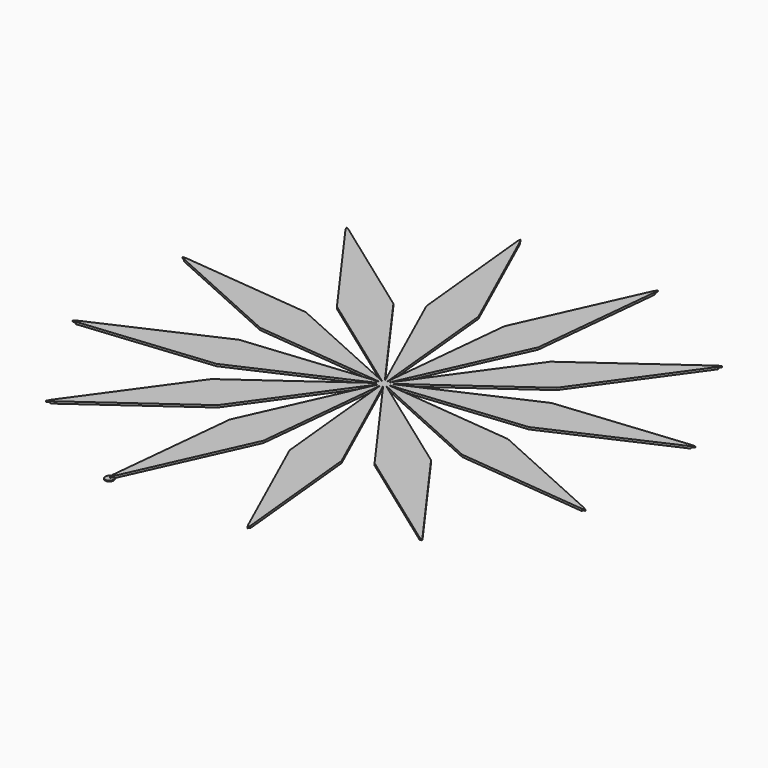
from build123d import *

# Parameters (mm, degrees)
F0_DEPTH = 1.25
F4_DEPTH = 0.5
F1_DEPTH = 0.625


with BuildPart() as f0:
    # F2 (on Top) → F0 (new body)
    with BuildSketch(Plane.XY):
        with BuildLine():
            ThreePointArc((2.2414386804, -1.2940952255), (2.5, -0.6698729811), (2.588190451, 0))
            ThreePointArc((2.588190451, 0), (2.5, 0.6698729811), (2.2414386804, 1.2940952255))
            ThreePointArc((2.2414386804, 1.2940952255), (1.8301270189, 1.8301270189), (1.2940952255, 2.2414386804))
            ThreePointArc((1.2940952255, 2.2414386804), (0.6698729811, 2.5), (0, 2.588190451))
            ThreePointArc((0, 2.588190451), (-0.6698729811, 2.5), (-1.2940952255, 2.2414386804))
            ThreePointArc((-1.2940952255, 2.2414386804), (-1.8301270189, 1.8301270189), (-2.2414386804, 1.2940952255))
            ThreePointArc((-2.2414386804, 1.2940952255), (-2.5, 0.6698729811), (-2.588190451, 0))
            Line((-2.588190451, 0), (0, 0))
            Line((0, 0), (0, -2.588190451))
            ThreePointArc((0, -2.588190451), (0.6698729811, -2.5), (1.2940952255, -2.2414386804))
            ThreePointArc((1.2940952255, -2.2414386804), (1.8301270189, -1.8301270189), (2.2414386804, -1.2940952255))
        make_face()
        with BuildLine():
            Line((79.283469064, -7.6867534323), (2.588190451, 0))
            ThreePointArc((2.588190451, 0), (2.5, -0.6698729811), (2.2414386804, -1.2940952255))
            Line((2.2414386804, -1.2940952255), (72.5048750257, -32.984810787))
            Line((72.5048750257, -32.984810787), (149.2001536387, -40.6715642193))
            Line((149.2001536387, -40.6715642193), (151.3053811766, -40.5421546968))
            Line((151.3053811766, -40.5421546968), (149.5469054093, -39.3774689938))
            Line((149.5469054093, -39.3774689938), (79.283469064, -7.6867534323))
        make_face()
        with BuildLine():
            ThreePointArc((2.2414386804, 1.2940952255), (2.5, 0.6698729811), (2.588190451, 0))
            Line((2.588190451, 0), (79.283469064, 7.6867534323))
            Line((79.283469064, 7.6867534323), (149.5469054093, 39.3774689938))
            Line((149.5469054093, 39.3774689938), (151.3053811766, 40.5421546968))
            Line((151.3053811766, 40.5421546968), (149.2001536387, 40.6715642193))
            Line((149.2001536387, 40.6715642193), (72.5048750257, 32.984810787))
            Line((72.5048750257, 32.984810787), (2.2414386804, 1.2940952255))
        make_face()
        with BuildLine():
            ThreePointArc((1.2940952255, 2.2414386804), (1.8301270189, 1.8301270189), (2.2414386804, 1.2940952255))
            Line((2.2414386804, 1.2940952255), (64.8181215934, 46.298658277))
            Line((64.8181215934, 46.298658277), (109.8226846449, 108.87534119))
            Line((109.8226846449, 108.87534119), (110.7632264798, 110.7632264798))
            Line((110.7632264798, 110.7632264798), (108.87534119, 109.8226846449))
            Line((108.87534119, 109.8226846449), (46.298658277, 64.8181215934))
            Line((46.298658277, 64.8181215934), (1.2940952255, 2.2414386804))
        make_face()
        with BuildLine():
            Line((64.8181215934, -46.298658277), (2.2414386804, -1.2940952255))
            ThreePointArc((2.2414386804, -1.2940952255), (1.8301270189, -1.8301270189), (1.2940952255, -2.2414386804))
            Line((1.2940952255, -2.2414386804), (46.298658277, -64.8181215934))
            Line((46.298658277, -64.8181215934), (108.87534119, -109.8226846449))
            Line((108.87534119, -109.8226846449), (110.7632264798, -110.7632264798))
            Line((110.7632264798, -110.7632264798), (109.8226846449, -108.87534119))
            Line((109.8226846449, -108.87534119), (64.8181215934, -46.298658277))
        make_face()
        with BuildLine():
            ThreePointArc((0, 2.588190451), (0.6698729811, 2.5), (1.2940952255, 2.2414386804))
            Line((1.2940952255, 2.2414386804), (32.984810787, 72.5048750257))
            Line((32.984810787, 72.5048750257), (40.6715642193, 149.2001536387))
            Line((40.6715642193, 149.2001536387), (40.5421546968, 151.3053811766))
            Line((40.5421546968, 151.3053811766), (39.3774689938, 149.5469054093))
            Line((39.3774689938, 149.5469054093), (7.6867534323, 79.283469064))
            Line((7.6867534323, 79.283469064), (0, 2.588190451))
        make_face()
        with BuildLine():
            Line((32.984810787, -72.5048750257), (1.2940952255, -2.2414386804))
            ThreePointArc((1.2940952255, -2.2414386804), (0.6698729811, -2.5), (0, -2.588190451))
            Line((0, -2.588190451), (7.6867534323, -79.283469064))
            Line((7.6867534323, -79.283469064), (39.3774689938, -149.5469054093))
            Line((39.3774689938, -149.5469054093), (40.5421546968, -151.3053811766))
            Line((40.5421546968, -151.3053811766), (40.6715642193, -149.2001536387))
            Line((40.6715642193, -149.2001536387), (32.984810787, -72.5048750257))
        make_face()
        with BuildLine():
            ThreePointArc((-1.2940952255, 2.2414386804), (-0.6698729811, 2.5), (0, 2.588190451))
            Line((0, 2.588190451), (-7.6867534323, 79.283469064))
            Line((-7.6867534323, 79.283469064), (-39.3774689938, 149.5469054093))
            Line((-39.3774689938, 149.5469054093), (-40.5421546968, 151.3053811766))
            Line((-40.5421546968, 151.3053811766), (-40.6715642193, 149.2001536387))
            Line((-40.6715642193, 149.2001536387), (-32.984810787, 72.5048750257))
            Line((-32.984810787, 72.5048750257), (-1.2940952255, 2.2414386804))
        make_face()
        with BuildLine():
            Line((-7.6867534323, -79.283469064), (0, -2.588190451))
            ThreePointArc((0, -2.588190451), (-0.6698729811, -2.5), (-1.2940952255, -2.2414386804))
            Line((-1.2940952255, -2.2414386804), (-32.984810787, -72.5048750257))
            Line((-32.984810787, -72.5048750257), (-40.6715642193, -149.2001536387))
            Line((-40.6715642193, -149.2001536387), (-40.5421546968, -151.3053811766))
            Line((-40.5421546968, -151.3053811766), (-39.3774689938, -149.5469054093))
            Line((-39.3774689938, -149.5469054093), (-7.6867534323, -79.283469064))
        make_face()
        Polygon((-1.2940952255, -2.2414386804), (0, -2.588190451), (0, 0), align=None)
        with BuildLine():
            ThreePointArc((-1.2940952255, -2.2414386804), (-0.6698729811, -2.5), (0, -2.588190451))
            Line((0, -2.588190451), (-1.2940952255, -2.2414386804))
        make_face()
        with BuildLine():
            ThreePointArc((-2.2414386804, 1.2940952255), (-1.8301270189, 1.8301270189), (-1.2940952255, 2.2414386804))
            Line((-1.2940952255, 2.2414386804), (-46.298658277, 64.8181215934))
            Line((-46.298658277, 64.8181215934), (-108.87534119, 109.8226846449))
            Line((-108.87534119, 109.8226846449), (-110.7632264798, 110.7632264798))
            Line((-110.7632264798, 110.7632264798), (-109.8226846449, 108.87534119))
            Line((-109.8226846449, 108.87534119), (-64.8181215934, 46.298658277))
            Line((-64.8181215934, 46.298658277), (-2.2414386804, 1.2940952255))
        make_face()
        with BuildLine():
            Line((-46.298658277, -64.8181215934), (-1.2940952255, -2.2414386804))
            ThreePointArc((-1.2940952255, -2.2414386804), (-1.8301270189, -1.8301270189), (-2.2414386804, -1.2940952255))
            Line((-2.2414386804, -1.2940952255), (-64.8181215934, -46.298658277))
            Line((-64.8181215934, -46.298658277), (-109.8226846449, -108.87534119))
            Line((-109.8226846449, -108.87534119), (-110.7632264798, -110.7632264798))
            Line((-110.7632264798, -110.7632264798), (-108.87534119, -109.8226846449))
            Line((-108.87534119, -109.8226846449), (-46.298658277, -64.8181215934))
        make_face()
        Polygon((-2.2414386804, -1.2940952255), (-1.2940952255, -2.2414386804), (0, 0), align=None)
        with BuildLine():
            ThreePointArc((-2.2414386804, -1.2940952255), (-1.8301270189, -1.8301270189), (-1.2940952255, -2.2414386804))
            Line((-1.2940952255, -2.2414386804), (-2.2414386804, -1.2940952255))
        make_face()
        Polygon((-2.2414386804, -1.2940952255), (0, 0), (-2.588190451, 0), align=None)
        with BuildLine():
            ThreePointArc((-2.588190451, 0), (-2.5, 0.6698729811), (-2.2414386804, 1.2940952255))
            Line((-2.2414386804, 1.2940952255), (-72.5048750257, 32.984810787))
            Line((-72.5048750257, 32.984810787), (-149.2001536387, 40.6715642193))
            Line((-149.2001536387, 40.6715642193), (-151.3053811766, 40.5421546968))
            Line((-151.3053811766, 40.5421546968), (-149.5469054093, 39.3774689938))
            Line((-149.5469054093, 39.3774689938), (-79.283469064, 7.6867534323))
            Line((-79.283469064, 7.6867534323), (-2.588190451, 0))
        make_face()
        with BuildLine():
            Line((-72.5048750257, -32.984810787), (-2.2414386804, -1.2940952255))
            ThreePointArc((-2.2414386804, -1.2940952255), (-2.5, -0.6698729811), (-2.588190451, 0))
            Line((-2.588190451, 0), (-79.283469064, -7.6867534323))
            Line((-79.283469064, -7.6867534323), (-149.5469054093, -39.3774689938))
            Line((-149.5469054093, -39.3774689938), (-151.3053811766, -40.5421546968))
            Line((-151.3053811766, -40.5421546968), (-149.2001536387, -40.6715642193))
            Line((-149.2001536387, -40.6715642193), (-72.5048750257, -32.984810787))
        make_face()
        with BuildLine():
            ThreePointArc((-2.588190451, 0), (-2.5, -0.6698729811), (-2.2414386804, -1.2940952255))
            Line((-2.2414386804, -1.2940952255), (-2.588190451, 0))
        make_face()
    extrude(amount=F0_DEPTH)

    # F3 (on face) → F4 (join)
    with BuildSketch(Plane.XY):
        with BuildLine():
            ThreePointArc((-40.6715642193, -149.2001536387), (-42.407285452, -153.4761541969), (-38.1479036577, -151.7000416718))
            ThreePointArc((-38.1479036577, -151.7000416718), (-38.4769491833, -150.4603011061), (-39.3774689938, -149.5469054093))
            Line((-39.3774689938, -149.5469054093), (-40.5421546968, -151.3053811766))
            Line((-40.5421546968, -151.3053811766), (-40.6715642193, -149.2001536387))
        make_face()
        with BuildLine():
            Line((-40.5421546968, -151.3053811766), (-39.3774689938, -149.5469054093))
            ThreePointArc((-39.3774689938, -149.5469054093), (-40.000856045, -149.2852271061), (-40.6715642193, -149.2001536387))
            Line((-40.6715642193, -149.2001536387), (-40.5421546968, -151.3053811766))
        make_face()
    extrude(amount=F4_DEPTH)

    # F5 (on face) → F1 (cut)
    with BuildSketch(Plane(origin=(0, 0, 0), x_dir=(1, 0, 0), z_dir=(0, 0, -1))):
        Polygon((40.6715642193, 149.2001536387), (40.5421546968, 151.3053811766), (39.3774689938, 149.5469054093), align=None)
        Polygon((109.8226846449, 108.87534119), (110.7632264798, 110.7632264798), (108.87534119, 109.8226846449), align=None)
        Polygon((151.3053811766, 40.5421546968), (149.2001536387, 40.6715642193), (149.5469054093, 39.3774689938), align=None)
        Polygon((149.5469054093, -39.3774689938), (149.2001536387, -40.6715642193), (151.3053811766, -40.5421546968), align=None)
        Polygon((109.8226846449, -108.87534119), (108.87534119, -109.8226846449), (110.7632264798, -110.7632264798), align=None)
        Polygon((40.5421546968, -151.3053811766), (40.6715642193, -149.2001536387), (39.3774689938, -149.5469054093), align=None)
        Polygon((-40.5421546968, -151.3053811766), (-39.3774689938, -149.5469054093), (-40.6715642193, -149.2001536387), align=None)
        Polygon((-109.8226846449, -108.87534119), (-110.7632264798, -110.7632264798), (-108.87534119, -109.8226846449), align=None)
        Polygon((-149.2001536387, -40.6715642193), (-149.5469054093, -39.3774689938), (-151.3053811766, -40.5421546968), align=None)
        Polygon((-149.5469054093, 39.3774689938), (-149.2001536387, 40.6715642193), (-151.3053811766, 40.5421546968), align=None)
        Polygon((-109.8226846449, 108.87534119), (-108.87534119, 109.8226846449), (-110.7632264798, 110.7632264798), align=None)
    extrude(amount=-F1_DEPTH, mode=Mode.SUBTRACT)


solid = f0.part
